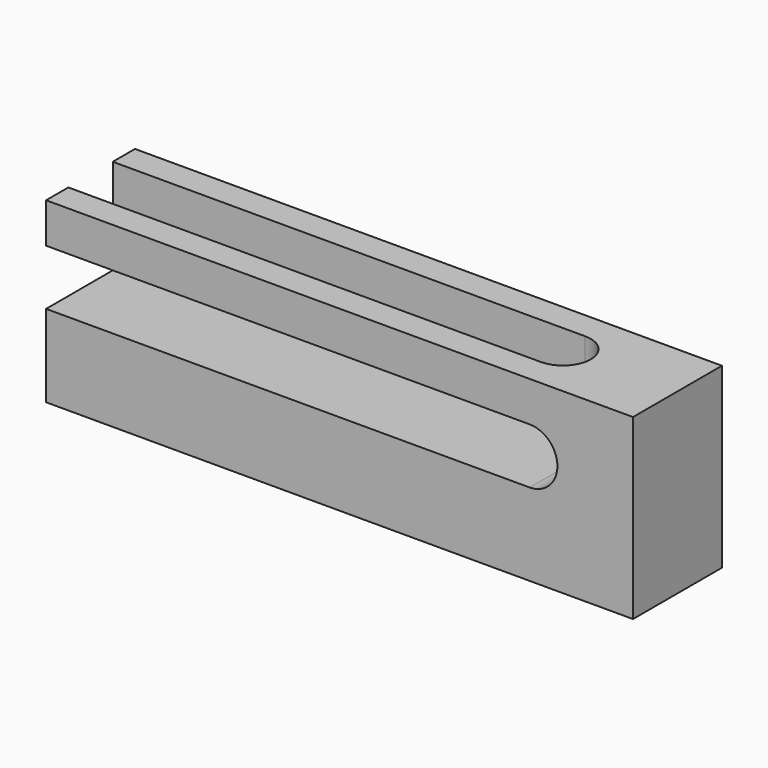
from build123d import *

# Parameters (mm, degrees)
F1_DEPTH = 4.572
F3_DEPTH = 12.7


with BuildPart() as f1:
    # F0 (on Top) → F1 (new body)
    with BuildSketch(Plane.XY):
        with BuildLine():
            Line((24.051455, 5.270794), (-43.004545, 5.270794))
            Line((-43.004545, 5.270794), (-43.004545, 2.095794))
            Line((-43.004545, 2.095794), (10.970455, 2.095794))
            ThreePointArc((10.970455, 2.095794), (14.145455, -1.079206), (10.970455, -4.254206))
            Line((10.970455, -4.254206), (-43.004545, -4.254206))
            Line((-43.004545, -4.254206), (-43.004545, -7.429206))
            Line((-43.004545, -7.429206), (24.051455, -7.429206))
            Line((24.051455, -7.429206), (24.051455, 5.270794))
        make_face()
    extrude(amount=F1_DEPTH)

    # F2 (on face) → F3 (join)
    with BuildSketch(Plane.XZ.offset(7.429206)):
        with BuildLine():
            Line((24.051455, 0), (12.240455, 0))
            ThreePointArc((12.240455, 0), (15.415455, -3.175), (12.240455, -6.35))
            Line((12.240455, -6.35), (-43.004545, -6.35))
            Line((-43.004545, -6.35), (-42.99381, -15.748))
            Line((-42.99381, -15.748), (24.051455, -15.748))
            Line((24.051455, -15.748), (24.051455, 0))
        make_face()
    extrude(amount=-F3_DEPTH)


with BuildPart() as f1_1:
    # F4: moved
    add(f1.part.moved(Location((43.0022, 7.4168, 15.748))))


solid = f1_1.part
